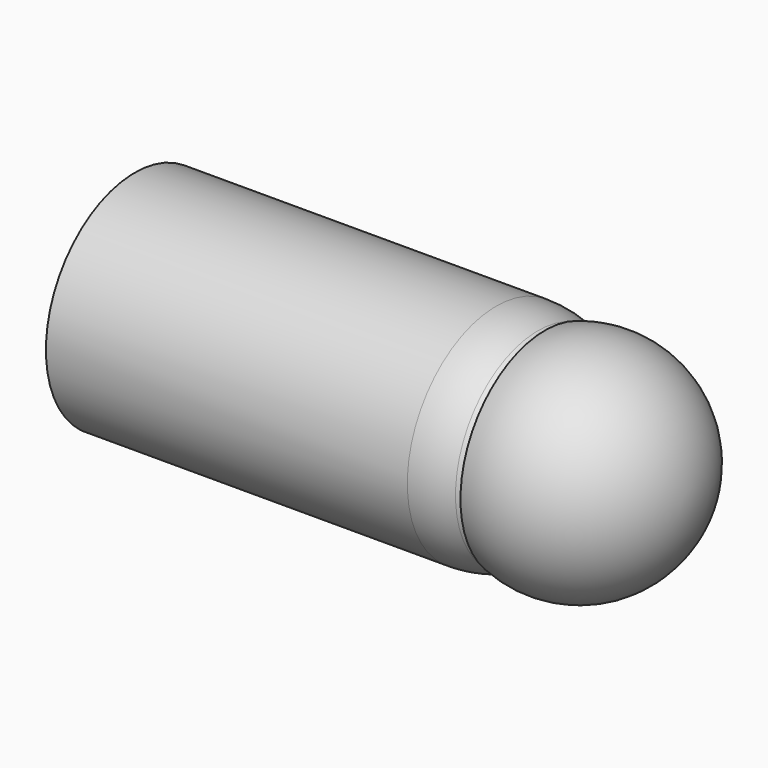
from build123d import *

# Parameters (mm, degrees)
F3_SIZE = 0.1


with BuildPart() as f1:
    # F0 (on Top) → F1 (revolve)
    with BuildSketch(Plane.XY):
        with BuildLine():
            Line((-39.011973466, 0), (-12, 0))
            ThreePointArc((-12, 0), (-8.4852813742, 8.4852813742), (0, 12))
            Line((0, 12), (-39.011973466, 12))
            Line((-39.011973466, 12), (-39.011973466, 0))
        make_face()
        with BuildLine():
            Line((-12, 0), (-3, 0))
            ThreePointArc((-3, 0), (-0.9498743711, 6.7082039325), (4.5, 11.1242977306))
            ThreePointArc((4.5, 11.1242977306), (2.2922071495, 11.77904013), (0, 12))
            ThreePointArc((0, 12), (-8.4852813742, 8.4852813742), (-12, 0))
        make_face()
        with BuildLine():
            Line((-3, 0), (12, 0))
            ThreePointArc((12, 0), (10.8969682166, 5.0255431236), (7.7906527188, 9.1271972815))
            ThreePointArc((7.7906527188, 9.1271972815), (6.2259247196, 10.2585506474), (4.5, 11.1242977306))
            ThreePointArc((4.5, 11.1242977306), (-0.9498743711, 6.7082039325), (-3, 0))
        make_face()
    revolve(axis=Axis((-1.505986733, 0, 0), (1, 0, 0)))


with BuildPart() as f2:
    # F0 (on Top) → F2 (revolve)
    with BuildSketch(Plane.XY):
        with BuildLine():
            Line((12, 5.5342473054), (12, 0))
            Line((12, 0), (21, 0))
            ThreePointArc((21, 0), (15.9984447223, 9.7479111336), (5.1630380886, 11.3700362045))
            Line((5.1630380886, 11.3700362045), (7.7906527188, 9.1271972815))
            Line((7.7906527188, 9.1271972815), (12, 5.5342473054))
        make_face()
    revolve(axis=Axis((-1.505986733, 0, 0), (1, 0, 0)))

    # F3
    f3_edges = [f2.edges().sort_by_distance(p)[0] for p in [
        (5.163038, -11.370036, 0),
    ]]
    chamfer(f3_edges, length=F3_SIZE)


solid = Compound([f1.part, f2.part])
